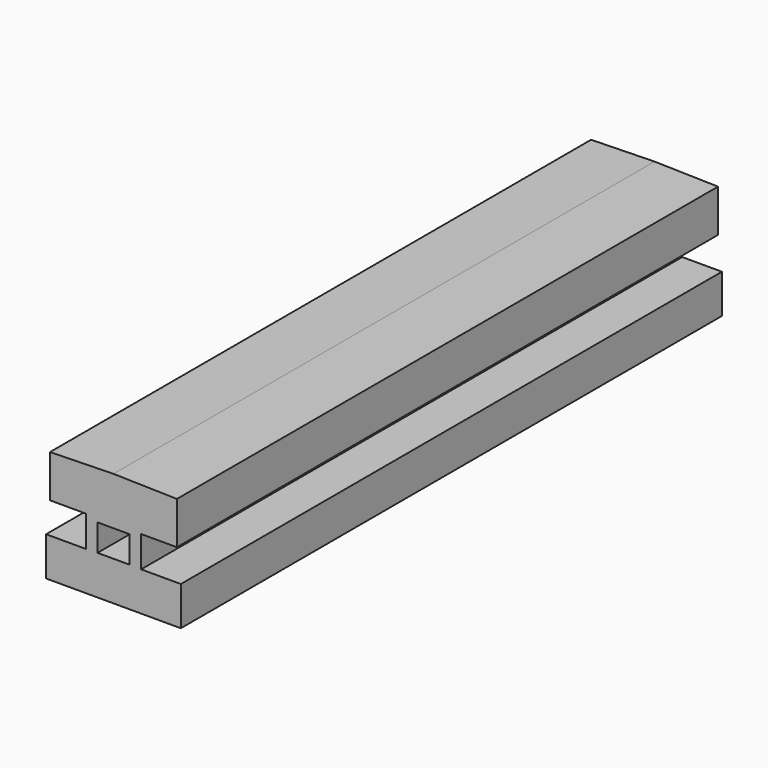
from build123d import *

# Parameters (mm, degrees)
F1_DEPTH = 500
F2_W     = 23.519294
F2_H     = 19.81963
F3_DEPTH = 500


with BuildPart() as f1:
    # F0 (on Front) → F1 (new body)
    with BuildSketch(Plane.XZ):
        Polygon((-49.813338, -38.97861), (0, -38.97861), (49.813338, -38.97861), (49.813338, -10.174078), (20.480286, -10.174078), (20.480286, 12.816695), (46.90646, 12.816695), (46.90646, 44.263847), (0, 45.320891), (-46.90646, 44.263847), (-46.90646, 12.816695), (-20.480286, 12.816695), (-20.480286, -10.174078), (-49.813338, -10.174078), align=None)
    extrude(amount=F1_DEPTH)

    # F2 (on face) → F3 (cut)
    with BuildSketch(Plane.XZ.offset(500)):
        Rectangle(F2_W, F2_H)
    extrude(amount=-F3_DEPTH, mode=Mode.SUBTRACT)


solid = f1.part
